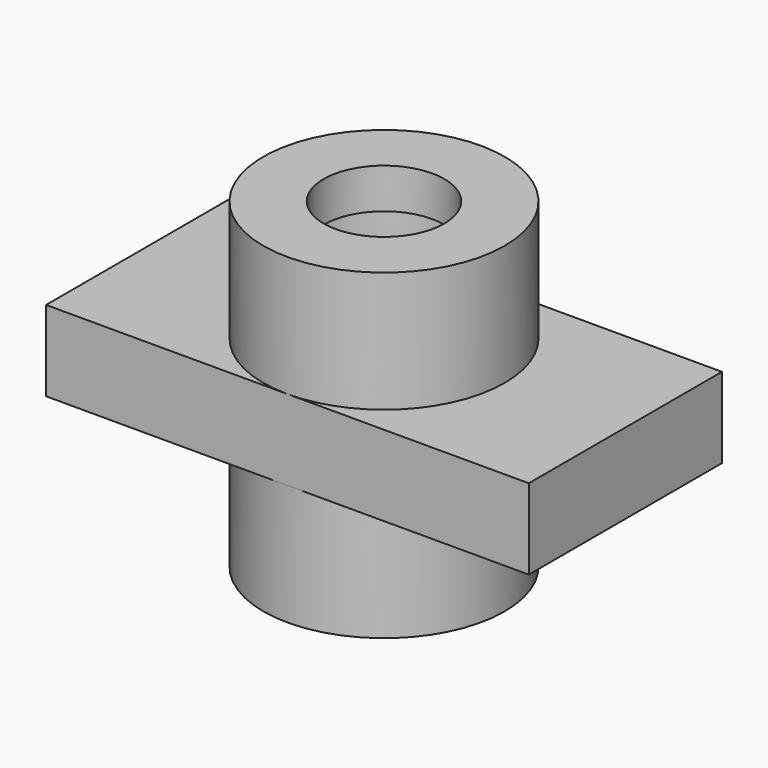
from build123d import *

# Parameters (mm, degrees)
F0_R     = 9.525
F1_DEPTH = 25.4
F2_DEPTH = 25.4
F3_DEPTH = 6.35
F4_W     = 12.7
F4_H     = 6.35


with BuildPart() as f1:
    # F0 (on Top) → F1 (new body)
    with BuildSketch(Plane.XY):
        with BuildLine():
            ThreePointArc((0, -19.05), (13.4703841816, -13.4703841816), (19.05, 0))
            ThreePointArc((19.05, 0), (13.4703841816, 13.4703841816), (0, 19.05))
            ThreePointArc((0, 19.05), (-19.05, 0), (0, -19.05))
        make_face()
        Circle(F0_R, mode=Mode.SUBTRACT)
    extrude(amount=F1_DEPTH)

    # F0 (on Top) → F2 (join)
    with BuildSketch(Plane.XY):
        with BuildLine():
            ThreePointArc((0, -19.05), (13.4703841816, -13.4703841816), (19.05, 0))
            ThreePointArc((19.05, 0), (13.4703841816, 13.4703841816), (0, 19.05))
            ThreePointArc((0, 19.05), (-19.05, 0), (0, -19.05))
        make_face()
        Circle(F0_R, mode=Mode.SUBTRACT)
    extrude(amount=-F2_DEPTH)

    # F0 (on Top) → F3 (join, symmetric)
    with BuildSketch(Plane.XY):
        with BuildLine():
            ThreePointArc((0, 19.05), (13.4703841816, 13.4703841816), (19.05, 0))
            ThreePointArc((19.05, 0), (13.4703841816, -13.4703841816), (0, -19.05))
            Line((0, -19.05), (38.1, -19.05))
            Line((38.1, -19.05), (38.1, 19.05))
            Line((38.1, 19.05), (0, 19.05))
        make_face()
        with BuildLine():
            ThreePointArc((0, -19.05), (-19.05, 0), (0, 19.05))
            Line((0, 19.05), (-38.1, 19.05))
            Line((-38.1, 19.05), (-38.1, -19.05))
            Line((-38.1, -19.05), (0, -19.05))
        make_face()
    extrude(amount=F3_DEPTH, both=True)

    # F4 (on Front) → F5 (revolve, cut)
    with BuildSketch(Plane.XZ):
        with Locations((6.35, 15.875)):
            Rectangle(F4_W, F4_H)
    revolve(axis=Axis((0, 0, 15.875), (0, 0, 1)), mode=Mode.SUBTRACT)


solid = f1.part
